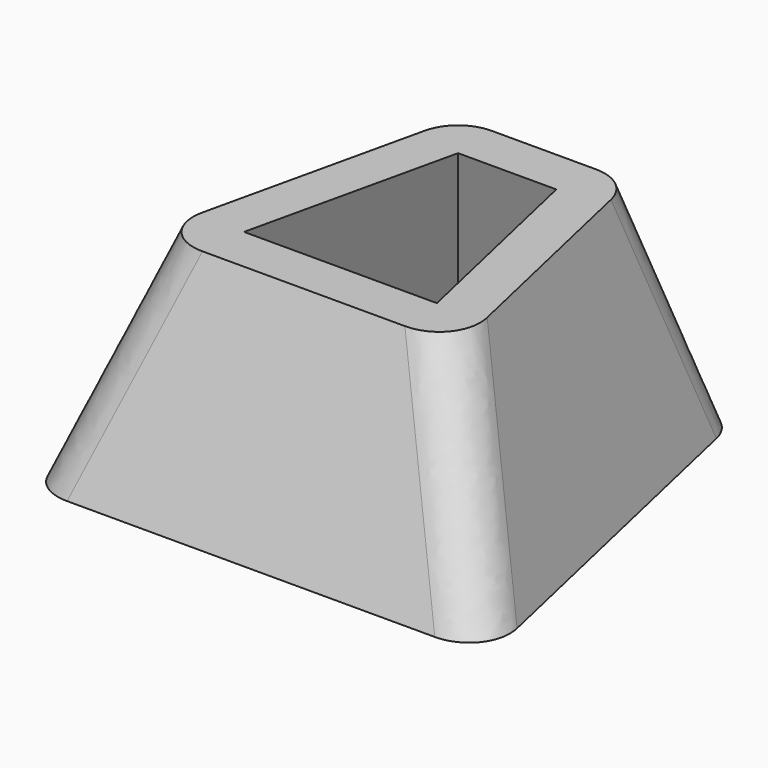
from build123d import *

# Parameters (mm, degrees)
F4_T = -10
F5_R = 10


with BuildPart() as f3:
    # F0 (on Top) → F3 section 0
    with BuildSketch(Plane.XY):
        Polygon((19.5, 0), (0, 0), (-19.5, 0), (-35, -68.2623615179), (0, -68.2623615179), (35, -68.2623615179), align=None)
    # F2 (on offset) → F3 section 1
    with BuildSketch(Plane.XY.offset(-50)):
        Polygon((0, -83.2623615179), (53.7878059224, -83.2623615179), (31.4758528979, 15), (0, 15), (-31.4758528979, 15), (-53.7878059224, -83.2623615179), align=None)
    loft()

    # F4
    f4_openings = [f3.faces().sort_by_distance(p)[0] for p in [
        (0, -37.366858, 0),
        (0, -38.41676, -50),
    ]]
    offset(amount=F4_T, openings=f4_openings, kind=Kind.INTERSECTION)

    # F5
    f5_edges = [f3.edges().sort_by_distance(p)[0] for p in [
        (-25.487926, 7.5, -25),
        (-44.393903, -75.762362, -25),
        (44.393903, -75.762362, -25),
        (25.487926, 7.5, -25),
    ]]
    fillet(f5_edges, radius=F5_R)


solid = f3.part
